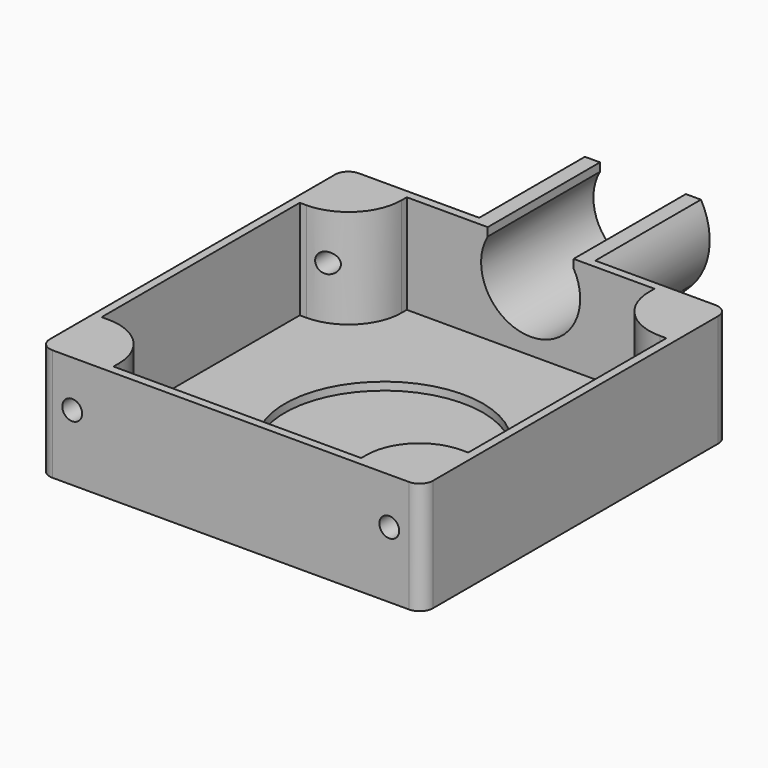
from build123d import *

# Parameters (mm, degrees)
PAD_DEPTH            = 22
POCKET_DEPTH         = 20
PAD001_DEPTH         = 20
POCKET001_DEPTH      = 5
SKETCH004_R          = 1.5
SKETCH004_W          = 80
SKETCH004_H          = 10
POCKET002_DEPTH      = 78.001
CHAMFER_SIZE         = 5.2
SKETCH005_R          = 15
POCKET003_DEPTH      = 1.2
POCKET004_DEPTH      = 29.001
POCKET004_DEPTH_BACK = -29.001


with BuildPart() as part:
    # Sketch → Pad (new body)
    with BuildSketch(Plane.XY):
        with BuildLine():
            Line((-27, 29), (27, 29))
            ThreePointArc((29, 27), (28.414214, 28.414214), (27, 29))
            Line((29, 27), (29, -27))
            ThreePointArc((27, -29), (28.414214, -28.414214), (29, -27))
            Line((27, -29), (-27, -29))
            ThreePointArc((-29, -27), (-28.414214, -28.414214), (-27, -29))
            Line((-29, -27), (-29, 27))
            ThreePointArc((-27, 29), (-28.414214, 28.414214), (-29, 27))
        make_face()
    extrude(amount=PAD_DEPTH)

    # Sketch001 (on Face10 of Pad) → Pocket (cut)
    with BuildSketch(Plane.XY.offset(22)):
        with BuildLine():
            Line((-18.75, 27.75), (18.75, 27.75))
            Line((18.75, 27.75), (18.75, 26.75))
            ThreePointArc((18.75, 26.75), (21.093146, 21.093146), (26.75, 18.75))
            Line((26.75, 18.75), (27.75, 18.75))
            Line((27.75, 18.75), (27.75, -18.75))
            Line((27.75, -18.75), (26.75, -18.75))
            ThreePointArc((26.75, -18.75), (21.093146, -21.093146), (18.75, -26.75))
            Line((18.75, -26.75), (18.75, -27.75))
            Line((18.75, -27.75), (-18.75, -27.75))
            Line((-18.75, -27.75), (-18.75, -26.75))
            ThreePointArc((-18.75, -26.75), (-21.093146, -21.093146), (-26.75, -18.75))
            Line((-26.75, -18.75), (-27.75, -18.75))
            Line((-27.75, -18.75), (-27.75, 18.75))
            Line((-27.75, 18.75), (-26.75, 18.75))
            ThreePointArc((-26.75, 18.75), (-21.093146, 21.093146), (-18.75, 26.75))
            Line((-18.75, 26.75), (-18.75, 27.75))
        make_face()
    extrude(amount=-POCKET_DEPTH, mode=Mode.SUBTRACT)

    # Sketch002 (on Face1 of Pocket) → Pad001 (join)
    with BuildSketch(Plane(origin=(0, 29, 0), x_dir=(-1, 0, 0), z_dir=(0, 1, 0))):
        with BuildLine():
            ThreePointArc((-6.5, 19.741657), (-10.084682, 12.694582), (-7.5, 5.222592))
            Line((-7.5, 5.222592), (-7.5, 0))
            Line((-7.5, 0), (7.5, 0))
            Line((7.5, 0), (7.5, 5.222592))
            ThreePointArc((7.5, 5.222592), (10.084682, 12.694582), (6.5, 19.741657))
            Line((6.5, 15.741657), (6.5, 19.741657))
            ThreePointArc((-6.5, 15.741657), (0, 4.5), (6.5, 15.741657))
            Line((-6.5, 15.741657), (-6.5, 19.741657))
        make_face()
    extrude(amount=PAD001_DEPTH)

    # Sketch003 → Pocket001 (cut)
    with BuildSketch(Plane(origin=(0, 29, 0), x_dir=(-1, 0, 0), z_dir=(0, 1, 0))):
        with BuildLine():
            ThreePointArc((-6.5, 15.741657), (0, 4.5), (6.5, 15.741657))
            Line((6.5, 25.741657), (6.5, 15.741657))
            Line((-6.5, 25.741657), (6.5, 25.741657))
            Line((-6.5, 15.741657), (-6.5, 25.741657))
        make_face()
    extrude(amount=-POCKET001_DEPTH, mode=Mode.SUBTRACT)

    # Sketch004 → Pocket002 (cut, through all)
    with BuildSketch(Plane.XZ.offset(29)):
        with Locations((-24, 10)):
            Circle(SKETCH004_R)
        with Locations((24, 10)):
            Circle(SKETCH004_R)
        with Locations((0, 22)):
            Rectangle(SKETCH004_W, SKETCH004_H)
    extrude(amount=-POCKET002_DEPTH, mode=Mode.SUBTRACT)

    # Chamfer
    chamfer_edges = [part.edges().sort_by_distance(p)[0] for p in [
        (7.5, 39, 0),
        (-7.5, 39, 0),
    ]]
    chamfer(chamfer_edges, length=CHAMFER_SIZE)

    # Sketch005 (on Face42 of Chamfer) → Pocket003 (cut)
    with BuildSketch(Plane.XY.offset(2)):
        Circle(SKETCH005_R)
    extrude(amount=-POCKET003_DEPTH, mode=Mode.SUBTRACT)

    # Sketch006 → Pocket004 (cut, two sides)
    with BuildSketch(Plane.YZ) as pocket004_sk:
        with BuildLine():
            ThreePointArc((34, 3), (33, 2), (34, 1))
            Line((34, 1), (38, 1))
            ThreePointArc((38, 1), (39, 2), (38, 3))
            Line((34, 3), (38, 3))
        make_face()
        with BuildLine():
            ThreePointArc((42, 3), (41, 2), (42, 1))
            Line((42, 1), (46, 1))
            ThreePointArc((46, 1), (47, 2), (46, 3))
            Line((42, 3), (46, 3))
        make_face()
    extrude(amount=-POCKET004_DEPTH, mode=Mode.SUBTRACT)
    extrude(pocket004_sk.sketch, amount=-POCKET004_DEPTH_BACK, mode=Mode.SUBTRACT)


solid = part.part
